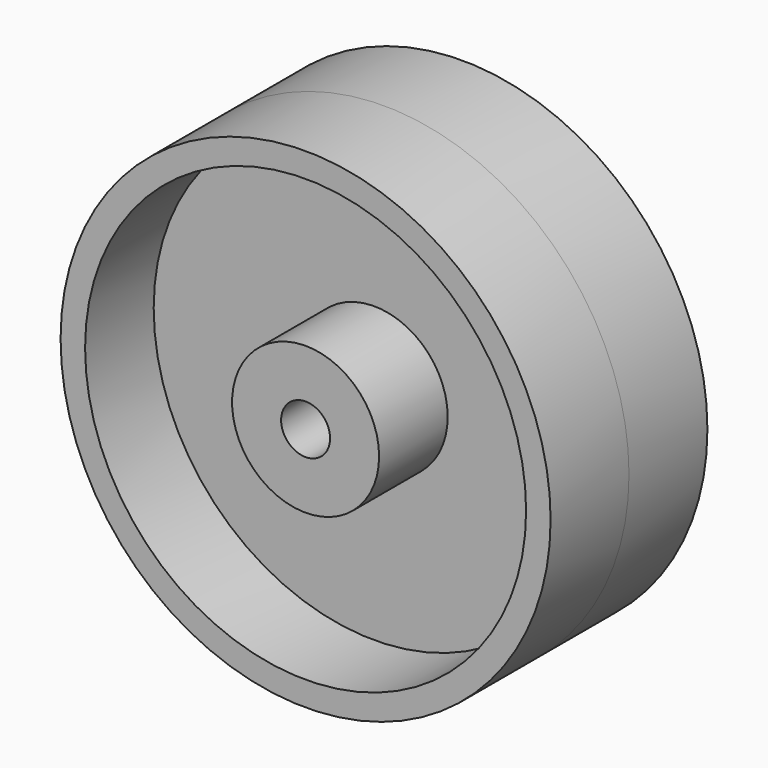
from build123d import *

# Parameters (mm, degrees)
F0_R     = 63.5
F0_R_2   = 57.15
F0_R_3   = 19.05
F0_R_4   = 6.35
F1_DEPTH = 25.4
F2_R     = 57.15
F2_R_2   = 19.05
F3_DEPTH = 3.175


with BuildPart() as f1:
    # F0 (on Front) → F1 (new body, symmetric)
    with BuildSketch(Plane.XZ):
        Circle(F0_R)
        Circle(F0_R_2, mode=Mode.SUBTRACT)
        Circle(F0_R_3)
        Circle(F0_R_4, mode=Mode.SUBTRACT)
    extrude(amount=F1_DEPTH, both=True)


with BuildPart() as f3:
    # F2 (on Front) → F3 (new body, symmetric)
    with BuildSketch(Plane.XZ):
        Circle(F2_R)
        Circle(F2_R_2, mode=Mode.SUBTRACT)
    extrude(amount=F3_DEPTH, both=True)


solid = Compound([f1.part, f3.part])
